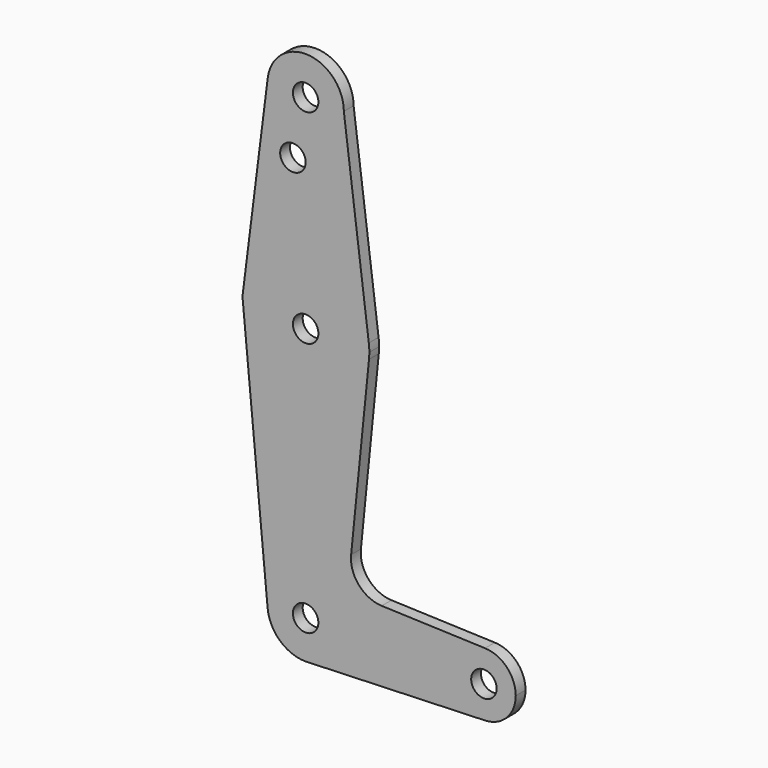
from build123d import *

# Parameters (mm, degrees)
F0_R     = 3.175
F1_DEPTH = 3.048


with BuildPart() as f1:
    # F0 (on Front) → F1 (new body)
    with BuildSketch(Plane.XZ):
        with BuildLine():
            Line((15.747457, 65.508289), (9.525, 114.3))
            ThreePointArc((9.525, 114.3), (-0.596483, 104.793695), (-9.450293, 115.490625))
            Line((-9.450293, 115.490625), (-15.750488, 65.484375))
            ThreePointArc((-15.750488, 65.484375), (-0.012053, 79.374995), (15.747457, 65.508289))
        make_face()
        with Locations((-3.175, 100.0252)):
            Circle(F0_R, mode=Mode.SUBTRACT)
        with BuildLine():
            ThreePointArc((15.875, 63.5), (15.843082, 64.506168), (15.747457, 65.508289))
            ThreePointArc((15.747457, 65.508289), (-0.012053, 79.374995), (-15.750488, 65.484375))
            Line((-15.750488, 65.484375), (-15.100703, 58.602614))
            ThreePointArc((-15.100703, 58.602614), (1.691005, 47.71532), (15.795426, 61.9125))
            ThreePointArc((15.795426, 61.9125), (15.855094, 62.705253), (15.875, 63.5))
        make_face()
        with Locations((0, 63.5)):
            Circle(F0_R, mode=Mode.SUBTRACT)
        with BuildLine():
            ThreePointArc((15.795426, 61.9125), (1.691005, 47.71532), (-15.100703, 58.602614))
            Line((-15.100703, 58.602614), (-9.482822, -0.895381))
            ThreePointArc((-9.482822, -0.895381), (-0.448187, 9.51445), (9.525, 0))
            ThreePointArc((9.525, 0), (6.970557, -6.491299), (0.677344, -9.500886))
            Line((0.677344, -9.500886), (44.732405, -7.932475))
            ThreePointArc((44.732405, -7.932475), (36.5125, 0.000539), (44.733482, 7.932436))
            Line((44.733482, 7.932436), (18.9676, 8.853234))
            ThreePointArc((18.9676, 8.853234), (13.2612, 11.571359), (11.341187, 17.593382))
            Line((11.341187, 17.593382), (15.795426, 61.9125))
        make_face()
        with BuildLine():
            ThreePointArc((9.525, 0), (-0.448187, 9.51445), (-9.482822, -0.895381))
            ThreePointArc((-9.482822, -0.895381), (-6.410816, -7.044648), (0, -9.525))
            Line((0, -9.525), (0.677344, -9.500886))
            ThreePointArc((0.677344, -9.500886), (6.970557, -6.491299), (9.525, 0))
        make_face()
        Circle(F0_R, mode=Mode.SUBTRACT)
        with BuildLine():
            ThreePointArc((52.3875, 0), (50.162007, 5.511523), (44.733482, 7.932436))
            ThreePointArc((44.733482, 7.932436), (36.5125, 0.000539), (44.732405, -7.932475))
            ThreePointArc((44.732405, -7.932475), (50.161633, -5.51191), (52.3875, 0))
        make_face()
        with Locations((44.45, 0)):
            Circle(F0_R, mode=Mode.SUBTRACT)
        with BuildLine():
            ThreePointArc((-9.450293, 115.490625), (-0.596483, 104.793695), (9.525, 114.3))
            ThreePointArc((9.525, 114.3), (0.596483, 123.806305), (-9.450293, 115.490625))
        make_face()
        with Locations((0, 114.3)):
            Circle(F0_R, mode=Mode.SUBTRACT)
    extrude(amount=F1_DEPTH)


solid = f1.part
